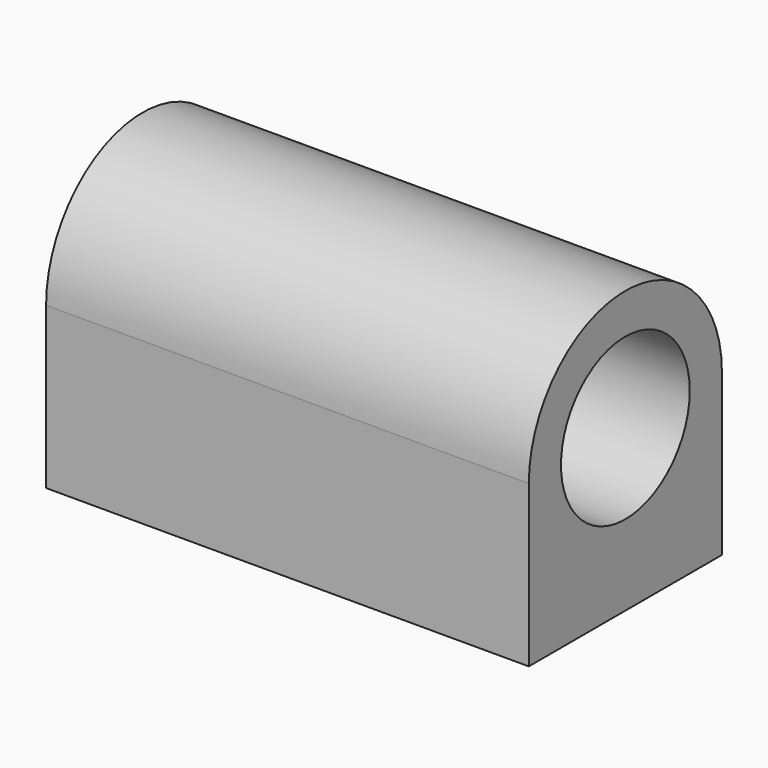
from build123d import *

# Parameters (mm, degrees)
F0_R     = 0.5
F1_DEPTH = 1.5
F2_R     = 0.065
F3_DEPTH = 0.5


with BuildPart() as f1:
    # F0 (on Right) → F1 (new body, symmetric)
    with BuildSketch(Plane.YZ):
        with BuildLine():
            Line((0.75, -1), (0.75, 0))
            ThreePointArc((0.75, 0), (0, 0.75), (-0.75, 0))
            Line((-0.75, 0), (-0.75, -1))
            Line((-0.75, -1), (0.75, -1))
        make_face()
        Circle(F0_R, mode=Mode.SUBTRACT)
    extrude(amount=F1_DEPTH, both=True)

    # F2 (on face) → F3 (cut)
    with BuildSketch(Plane(origin=(0, 0, -1), x_dir=(1, 0, 0), z_dir=(0, 0, -1))):
        with Locations((1.25, -0.5)):
            Circle(F2_R)
        with Locations((1.25, 0.5)):
            Circle(F2_R)
        with Locations((-1.25, -0.5)):
            Circle(F2_R)
        with Locations((-1.25, 0.5)):
            Circle(F2_R)
    extrude(amount=-F3_DEPTH, mode=Mode.SUBTRACT)


solid = f1.part
